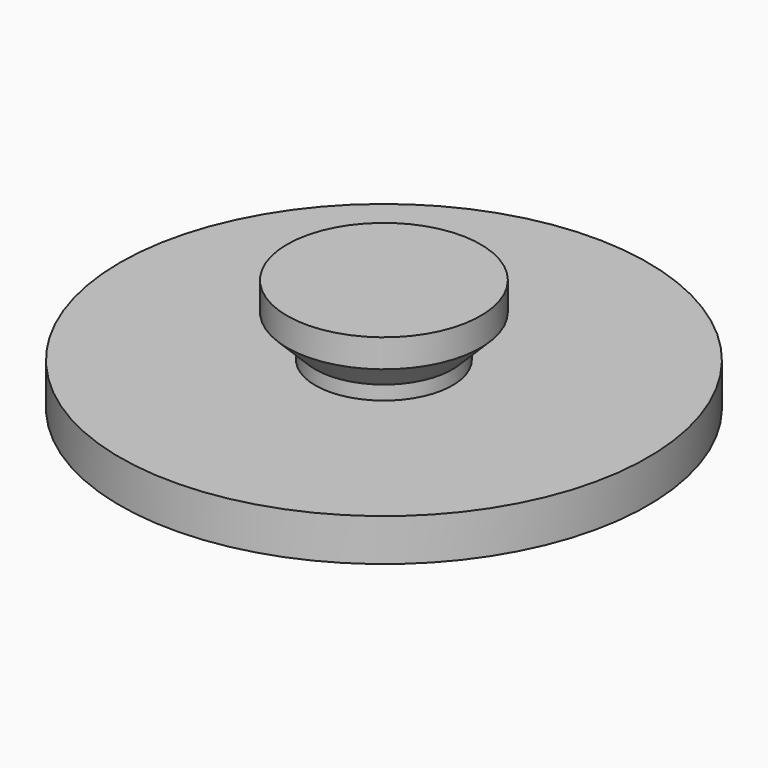
from build123d import *


with BuildPart() as part:
    # Sketch → Revolution (revolve)
    with BuildSketch(Plane.XZ):
        Polygon((0, 0), (-7.5, 0), (-7.5, 1.2), (-1.95, 1.2), (-1.95, 1.6), (-2.75, 2.4), (-2.75, 3.2), (0, 3.2), align=None)
    revolve(axis=Axis((0, 0, 0), (0, 0, 1)))


solid = part.part
